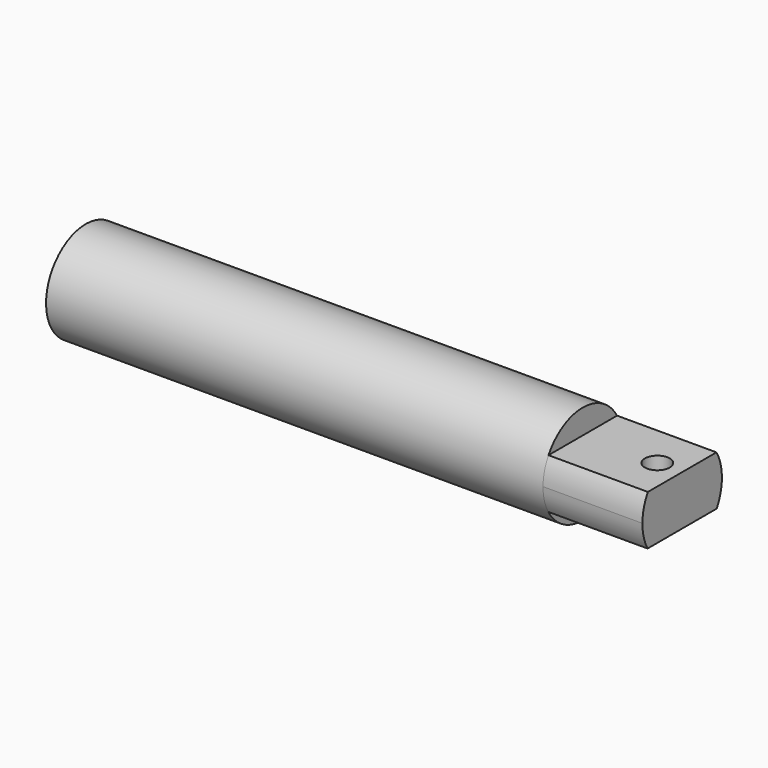
from build123d import *

# Parameters (mm, degrees)
F3_DEPTH = 25.4
F5_D     = 6.35


with BuildPart() as f1:
    # F0 (on Front) → F1 (revolve)
    with BuildSketch(Plane.XZ):
        with BuildLine():
            Line((82.624230206, 38.012702018), (-44.375769794, 38.012702018))
            Line((-44.375769794, 38.012702018), (-44.375769794, 36.3112246461))
            ThreePointArc((-44.375769794, 36.3112246461), (-39.7272471659, 31.662702018), (-38.025769794, 25.312702018))
            Line((-38.025769794, 25.312702018), (82.624230206, 25.312702018))
            Line((82.624230206, 25.312702018), (82.624230206, 31.662702018))
            Line((82.624230206, 31.662702018), (82.624230206, 38.012702018))
        make_face()
    revolve(axis=Axis((15.949230206, 0, 25.312702018), (-1, 0, 0)))

    # F2 (on face) → F3 (join)
    with BuildSketch(Plane.YZ.offset(82.624230206)):
        with BuildLine():
            Line((0, 25.3868182957), (0, 31.7368182957))
            Line((0, 31.7368182957), (-10.9553973023, 31.7368182957))
            ThreePointArc((-10.9553973023, 31.7368182957), (-12.2463268947, 28.6768479108), (-12.6997837296, 25.3868182957))
            Line((-12.6997837296, 25.3868182957), (0, 25.3868182957))
        make_face()
        with BuildLine():
            Line((0, 19.0368182957), (0, 25.3868182957))
            Line((0, 25.3868182957), (-12.6997837296, 25.3868182957))
            ThreePointArc((-12.6997837296, 25.3868182957), (-12.2876610608, 22.1028132887), (-11.0409819991, 19.0368182957))
            Line((-11.0409819991, 19.0368182957), (0, 19.0368182957))
        make_face()
        with BuildLine():
            Line((10.9553973023, 31.7368182957), (0, 31.7368182957))
            Line((0, 31.7368182957), (0, 25.3868182957))
            Line((0, 25.3868182957), (0, 19.0368182957))
            Line((0, 19.0368182957), (11.0409819991, 19.0368182957))
            ThreePointArc((11.0409819991, 19.0368182957), (12.2782423699, 22.0669718527), (12.7, 25.312702018))
            ThreePointArc((12.7, 25.312702018), (12.2560912558, 28.6410990993), (10.9553973023, 31.7368182957))
        make_face()
    extrude(amount=F3_DEPTH)

    # F5 (through all)
    with Locations(Plane(origin=(0, 0, 19.0368182957), x_dir=(1, 0, 0), z_dir=(0, 0, -1))):
        with Locations((101.674230206, 0)):
            Hole(F5_D / 2)


solid = f1.part
